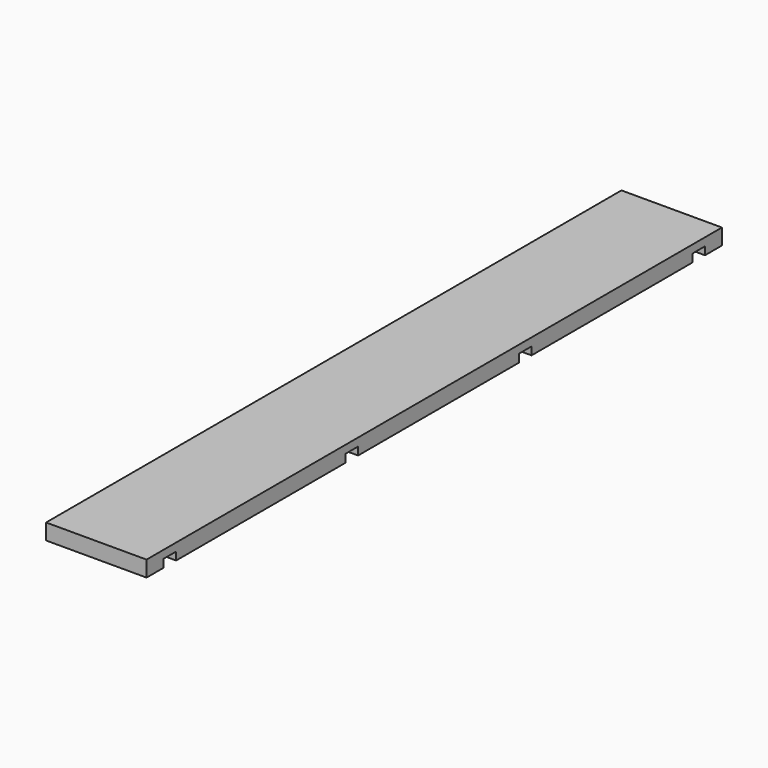
from build123d import *

# Parameters (mm, degrees)
F0_W     = 120.65
F0_H     = 19.05
F1_DEPTH = 863.6
F2_W     = 120.65
F2_H     = 19.05
F3_DEPTH = 9.525


with BuildPart() as f1:
    # F0 (on Front) → F1 (new body)
    with BuildSketch(Plane.XZ):
        with Locations((60.325, 9.525)):
            Rectangle(F0_W, F0_H)
    extrude(amount=F1_DEPTH)

    # F2 (on face) → F3 (cut)
    with BuildSketch(Plane(origin=(0, 0, 0), x_dir=(1, 0, 0), z_dir=(0, 0, -1))):
        with Locations((60.325, 828.675)):
            Rectangle(F2_W, F2_H)
        with Locations((60.325, 34.925)):
            Rectangle(F2_W, F2_H)
        with Locations((60.325, 295.275)):
            Rectangle(F2_W, F2_H)
        with Locations((60.325, 555.625)):
            Rectangle(F2_W, F2_H)
    extrude(amount=-F3_DEPTH, mode=Mode.SUBTRACT)


solid = f1.part
